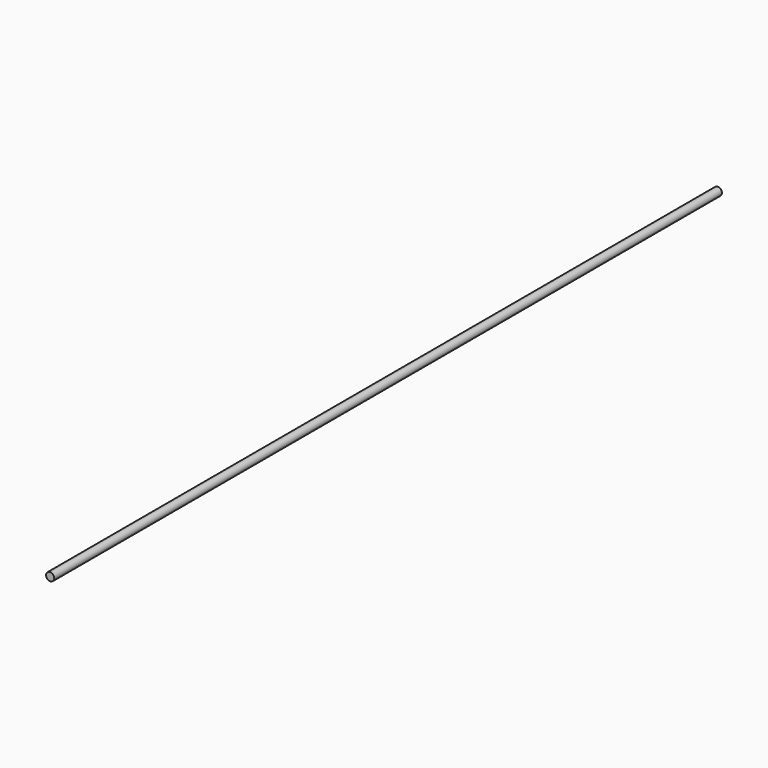
from build123d import *

# Parameters (mm, degrees)
F0_R = 0.25


with BuildPart() as f2:
    # F2: sweep along a path in F1
    with BuildLine(Plane.XY) as f2_path:
        Line((0, 0), (0, -51))
    # F0 (on Front) → F2 (sweep)
    with BuildSketch(Plane.XZ):
        Circle(F0_R)
    sweep(path=f2_path.line)


solid = f2.part
